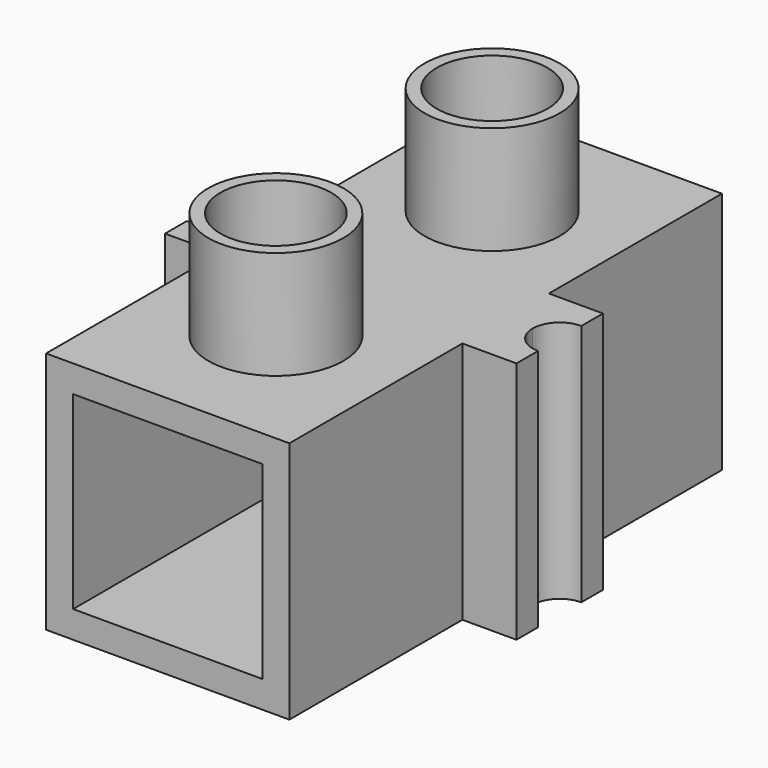
from build123d import *

# Parameters (mm, degrees)
F0_W     = 9
F0_H     = 9
F0_W_2   = 7
F0_H_2   = 7
F1_DEPTH = 10
F2_R     = 1.25
F3_DEPTH = 1
F4_R     = 2.5
F4_R_2   = 2.05
F5_DEPTH = 4
F7_DEPTH = 9


with BuildPart() as f1:
    # F0 (on Front) → F1 (new body)
    with BuildSketch(Plane.XZ):
        Rectangle(F0_W, F0_H)
        Rectangle(F0_W_2, F0_H_2, mode=Mode.SUBTRACT)
    extrude(amount=F1_DEPTH)

    # F2 (on face) → F3 (cut, through all)
    with BuildSketch(Plane.XY.offset(4.5)):
        with Locations((0, -5)):
            Circle(F2_R)
    extrude(amount=-F3_DEPTH, mode=Mode.SUBTRACT)

    # F4 (on face) → F5 (join)
    with BuildSketch(Plane.XY.offset(4.5)):
        with Locations((0, -5)):
            Circle(F4_R)
        with Locations((0, -5)):
            Circle(F4_R_2, mode=Mode.SUBTRACT)
    extrude(amount=F5_DEPTH)

    # F6 (on face) → F7 (join, through all)
    with BuildSketch(Plane.XY.offset(4.5)):
        with BuildLine():
            Line((-4.5, -2), (-4.5, 0))
            Line((-4.5, 0), (-5.5, 0))
            ThreePointArc((-5.5, 0), (-5.7928932188, -0.7071067812), (-6.5, -1))
            Line((-6.5, -1), (-6.5, -2))
            Line((-6.5, -2), (-4.5, -2))
        make_face()
        with BuildLine():
            Line((5.5, 0), (4.5, 0))
            Line((4.5, 0), (4.5, -2))
            Line((4.5, -2), (6.5, -2))
            Line((6.5, -2), (6.5, -1))
            ThreePointArc((6.5, -1), (5.7928932188, -0.7071067812), (5.5, 0))
        make_face()
    extrude(amount=-F7_DEPTH)

    # F8: F1 across face


with BuildPart() as f1_1:
    add(f1.part)
    add(f1.part.mirror(Plane(origin=(0, 0, 0), x_dir=(-1, 0, 0), z_dir=(0, 1, 0))))


solid = f1_1.part
